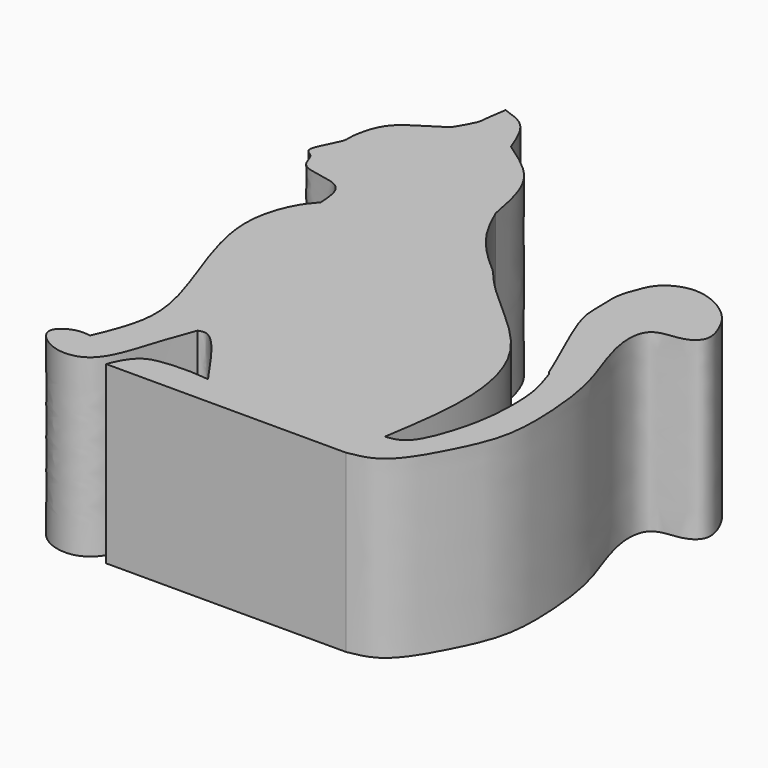
from build123d import *

# Parameters (mm, degrees)
F1_DEPTH = 20


with BuildPart() as f1:
    # F0 (on Top) → F1 (new body)
    with BuildSketch(Plane.XY):
        with BuildLine():
            add(Edge.make_bspline(
                [(-17.1616710722, 28.36676687), (-16.1598315036, 28.0472670506), (-13.9741049272, 27.3502100884), (-12.9503153118, 24.6364278771), (-12.3957851902, 23.1665223837)],
                knots=[0, 0, 0, 0, 0.4583553952, 1, 1, 1, 1], degree=3))
            add(Edge.make_bspline(
                [(-17.1616710722, 28.36676687), (-17.328582444, 27.3732619192), (-17.5838061144, 25.8540965241), (-17.4951374375, 25.0918492503), (-18.3368060162, 23.6802809333), (-18.892718479, 22.7479562163)],
                knots=[0, 0, 0, 0, 0.3908682502, 0.5976754512, 1, 1, 1, 1], degree=3))
            add(Edge.make_bspline(
                [(-18.892718479, 22.7479562163), (-19.731088897, 22.2055368936), (-21.218798759, 21.2429998593), (-22.7054780053, 20.3756209293), (-24.243294113, 18.668775406), (-24.7997219023, 15.5813146867), (-24.516327171, 14.7487749034), (-26.7741247683, 11.195670935), (-24.899583191, 10.8875954594), (-24.8288006425, 8.0355816259), (-19.1291920086, 8.4748273868), (-18.9688837526, 5.5754478313), (-18.892718479, 4.1979015805)],
                knots=[0, 0, 0, 0, 0.1076008736, 0.1909405168, 0.2882876811, 0.3979643978, 0.4632216493, 0.5821642249, 0.6503952072, 0.7433095502, 0.87804185, 1, 1, 1, 1], degree=3))
            add(Edge.make_bspline(
                [(-18.892718479, 4.1979015805), (-19.3270469567, 3.7102370308), (-20.469291223, 2.4277237619), (-22.6973769241, -3.5677996502), (-18.8208806779, -13.7400798729), (-16.0785291662, -21.9937373669), (-17.9901302435, -26.5427102105), (-18.892718479, -28.6905691028)],
                knots=[0, 0, 0, 0, 0.1160088939, 0.3050928057, 0.5648409588, 0.7945337885, 1, 1, 1, 1], degree=3))
            add(Edge.make_bspline(
                [(-18.892718479, -28.6905691028), (-19.3936610118, -28.6056844118), (-20.4867417507, -28.420461927), (-23.2746355404, -30.0929280139), (-20.2163914665, -33.0235250373), (-15.386966382, -32.6926776277), (-13.656476351, -26.3744507032), (-12.5453971972, -23.3738254418), (-12.0175639167, -21.9483375549)],
                knots=[0, 0, 0, 0, 0.1141568553, 0.2490957577, 0.4055447306, 0.5851510919, 0.8029203776, 1, 1, 1, 1], degree=3))
            add(Edge.make_bspline(
                [(-12.0175639167, -21.9483375549), (-11.6800807991, -21.8412976758), (-10.404929486, -21.4368565786), (-7.5414730823, -25.616854547), (-5.4358625785, -28.6905691028)],
                knots=[0, 0, 0, 0, 0.2646612321, 1, 1, 1, 1], degree=3))
            add(Edge.make_bspline(
                [(-5.4358625785, -28.6905691028), (-7.2683450892, -28.4508148166), (-11.0796684075, -28.4826416173), (-13.3008921533, -29.3164990132), (-14.3378619105, -32.0817567408)],
                knots=[0, 0, 0, 0, 0.5085040648, 1, 1, 1, 1], degree=3))
            Line((-14.3378619105, -32.0817567408), (13.0183761939, -32.0817567408))
            add(Edge.make_bspline(
                [(13.0183761939, -32.0817567408), (14.1898552527, -31.8754725867), (16.928403208, -31.3932454019), (20.2379024463, -25.37442458), (22.4219828951, -20.4414616503), (22.3484066589, -14.0828692496), (21.5984225576, -7.907243983), (19.3418962456, -2.5492896642), (18.7365216487, 1.00453003), (19.3466784638, 3.1119640749), (21.0697063191, 3.6207654144), (23.08441226, 3.6966526024), (24.8413181882, 5.108687306), (23.7641813095, 7.9840596947), (22.4711194363, 9.8376484478), (19.8238420752, 11.5968179065), (16.8380038452, 11.9767418172), (14.2899888425, 10.5126497542), (13.5526834141, 8.4244823416), (12.8408763403, 6.5936197797), (13.0783866744, 3.397336652), (12.9360659878, 1.0130916145), (17.1833242683, -7.7913100711), (17.4330536109, -8.8100674939), (17.645329237, -8.9188190177)],
                knots=[0, 0, 0, 0, 0.0474940676, 0.1107851884, 0.1694734988, 0.2312101534, 0.2939551295, 0.3540707378, 0.400893613, 0.4349647075, 0.4665086958, 0.5020833691, 0.5357024907, 0.5766031851, 0.6148450293, 0.6583059531, 0.7009008166, 0.7417726755, 0.7777914382, 0.8128546105, 0.8553470715, 0.8969862476, 0.9740761464, 1, 1, 1, 1], degree=3))
            add(Edge.make_bspline(
                [(17.645329237, -8.9188190177), (18.0416786028, -10.0711988654), (18.8721724005, -12.48584715), (18.8949134055, -17.1773657255), (18.3864598388, -21.1622115056), (16.3989079689, -27.1835822155), (14.5026640373, -27.4166691199), (13.7757183984, -27.506025508)],
                knots=[0, 0, 0, 0, 0.1924888075, 0.4033329547, 0.6115517255, 0.8510841488, 1, 1, 1, 1], degree=3))
            add(Edge.make_bspline(
                [(0.8470340981, 3.8738520816), (1.4145908644, 3.4481843468), (2.6352217452, 1.7032949056), (7.1109199657, -2.2307549789), (13.2732847908, -7.7417233858), (15.4905720626, -16.7718525178), (14.3570575333, -23.8157825644), (13.7757183984, -27.506025508)],
                knots=[0, 0, 0, 0, 0.122069903, 0.3071211628, 0.5240377846, 0.7492907456, 1, 1, 1, 1], degree=3))
            add(Edge.make_bspline(
                [(-5.4278406315, 12.2850751504), (-4.8178175147, 10.8827857482), (-3.4479728559, 7.9668489121), (-0.72538778, 5.2196914148), (0.8470340981, 3.8738520816)],
                knots=[0, 0, 0, 0, 0.4697213192, 1, 1, 1, 1], degree=3))
            add(Edge.make_bspline(
                [(-12.3957851902, 23.1665223837), (-11.0424609404, 22.2404257675), (-8.4955259869, 20.497526501), (-6.3937119092, 17.3186538718), (-5.7673340461, 14.0543241874), (-5.4278406315, 12.2850751504)],
                knots=[0, 0, 0, 0, 0.3417977126, 0.6432579195, 1, 1, 1, 1], degree=3))
        make_face()
    extrude(amount=F1_DEPTH)


solid = f1.part
